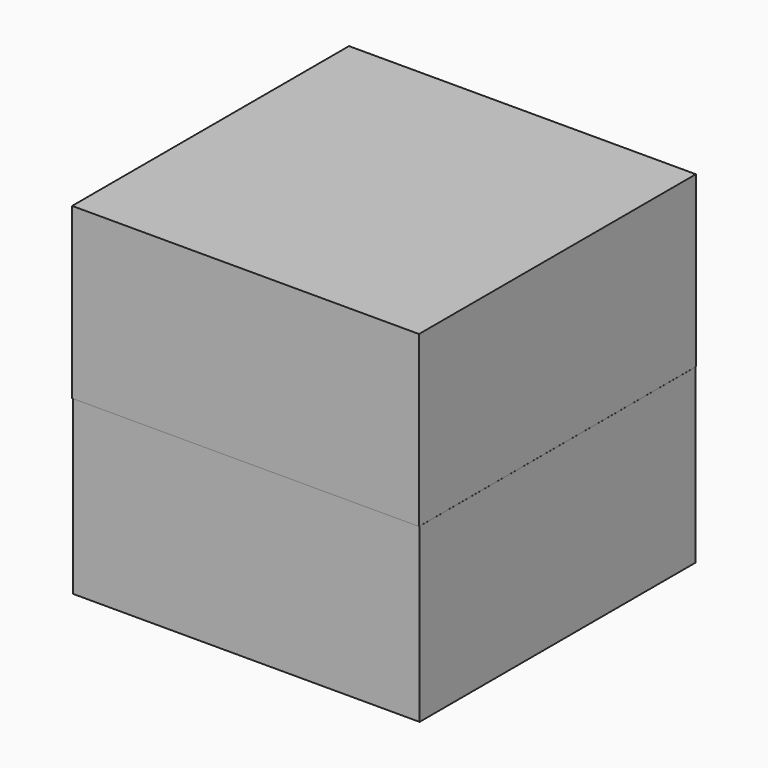
from build123d import *

# Parameters (mm, degrees)
F1_W     = 152.374603
F1_H     = 152.019009
F2_DEPTH = 74.422
F0_W     = 152.273536
F0_H     = 151.388213
F3_DEPTH = 75.692


with BuildPart() as f2:
    # F1 (on face) → F2 (new body)
    with BuildSketch(Plane.XY):
        with Locations((-0.088896, -0.088901)):
            Rectangle(F1_W, F1_H)
    extrude(amount=F2_DEPTH)

    # F0 (on Top) → F3 (join)
    with BuildSketch(Plane.XY):
        with Locations((-0.016719, -0.111528)):
            Rectangle(F0_W, F0_H)
    extrude(amount=-F3_DEPTH)


solid = f2.part
